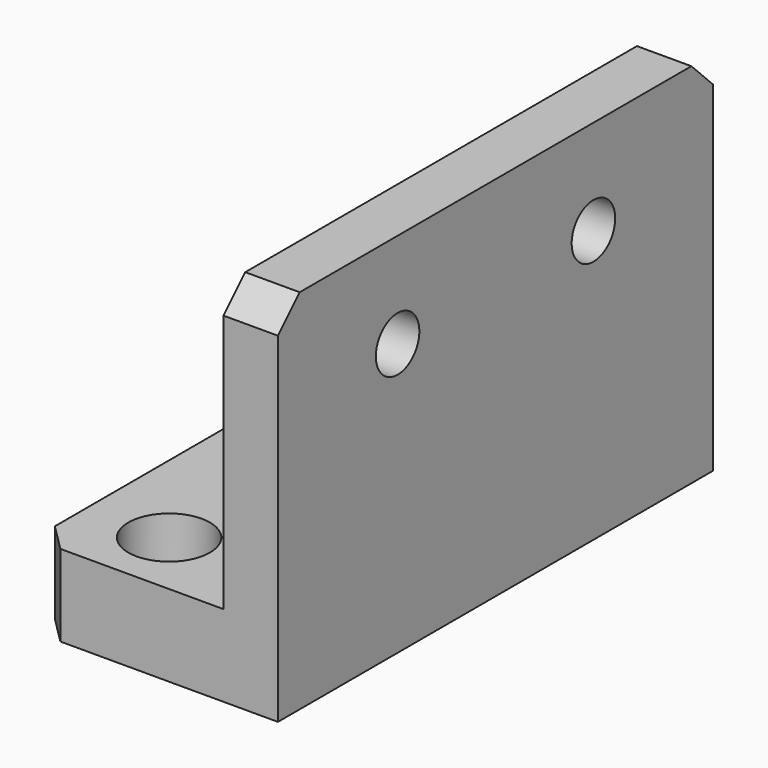
from build123d import *

# Parameters (mm, degrees)
SKETCH_W     = 9
SKETCH_H     = 20
SKETCH_R     = 1.5
PAD_DEPTH    = 3
SKETCH001_W  = 2
SKETCH001_H  = 20
PAD001_DEPTH = 10.5
SKETCH002_R  = 1
POCKET_DEPTH = 5
CHAMFER_SIZE = 1


with BuildPart() as part:
    # Sketch → Pad (new body)
    with BuildSketch(Plane.XY):
        with Locations((4.5, 10)):
            Rectangle(SKETCH_W, SKETCH_H)
        with Locations((3, 17.5)):
            Circle(SKETCH_R, mode=Mode.SUBTRACT)
        with Locations((3, 2.5)):
            Circle(SKETCH_R, mode=Mode.SUBTRACT)
    extrude(amount=PAD_DEPTH)

    # Sketch001 (on Face8 of Pad) → Pad001 (join)
    with BuildSketch(Plane.XY.offset(3)):
        with Locations((8, 10)):
            Rectangle(SKETCH001_W, SKETCH001_H)
    extrude(amount=PAD001_DEPTH)

    # Sketch002 (on Face8 of Pad001) → Pocket (cut)
    with BuildSketch(Plane.YZ.offset(9)):
        with Locations((5.5, 10)):
            Circle(SKETCH002_R)
        with Locations((14.5, 10)):
            Circle(SKETCH002_R)
    extrude(amount=-POCKET_DEPTH, mode=Mode.SUBTRACT)

    # Chamfer
    chamfer_edges = [part.edges().sort_by_distance(p)[0] for p in [
        (8, 0, 13.5),
        (8, 20, 13.5),
        (0, 0, 1.5),
        (0, 20, 1.5),
    ]]
    chamfer(chamfer_edges, length=CHAMFER_SIZE)


solid = part.part
